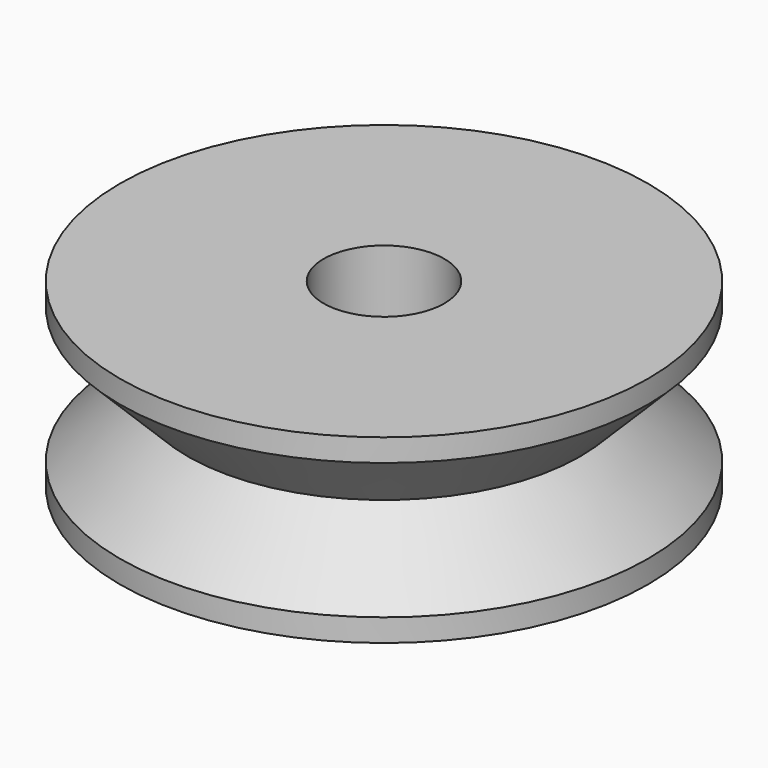
from build123d import *

# Parameters (mm, degrees)
F0_R     = 6.5
F1_DEPTH = 2.25
F1_TAPER = -45
F2_DEPTH = 0.75
F4_R     = 2
F5_DEPTH = 6


with BuildPart() as f1:
    # F0 (on Top) → F1 (new body)
    with BuildSketch(Plane.XY):
        Circle(F0_R)
    extrude(amount=F1_DEPTH, taper=F1_TAPER)

    # F2 (add): a face of the model
    f2_faces = [f1.faces().sort_by_distance(p)[0] for p in [
        (0, 0, 2.25),
    ]]
    extrude(f2_faces, amount=F2_DEPTH)

    # F3: F1 across plane


with BuildPart() as f1_1:
    add(f1.part)
    add(f1.part.mirror(Plane.XY))

    # F4 (on face) → F5 (cut, through all)
    with BuildSketch(Plane.XY.offset(3)):
        Circle(F4_R)
    extrude(amount=-F5_DEPTH, mode=Mode.SUBTRACT)


solid = f1_1.part
